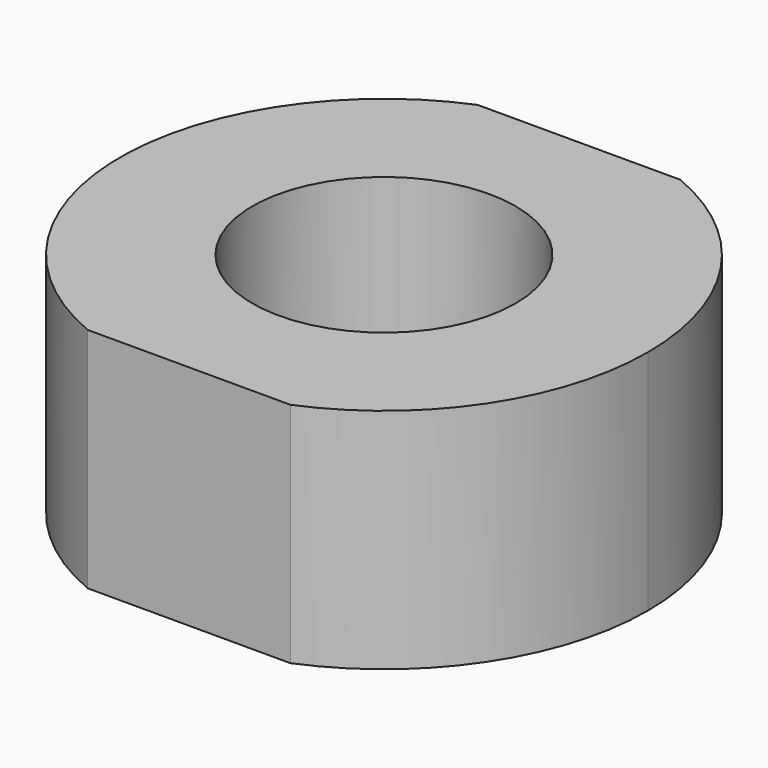
from build123d import *

# Parameters (mm, degrees)
F0_R     = 1.085
F1_DEPTH = 1.875


with BuildPart() as f1:
    # F0 (on Top) → F1 (new body)
    with BuildSketch(Plane.XY):
        with BuildLine():
            ThreePointArc((0.835, -2.008333), (1.809247, -1.207166), (2.175, 0))
            ThreePointArc((2.175, 0), (1.809247, 1.207166), (0.835, 2.008333))
            Line((0.835, 2.008333), (-0.835, 2.008333))
            ThreePointArc((-0.835, 2.008333), (-2.175, 0), (-0.835, -2.008333))
            Line((-0.835, -2.008333), (0.835, -2.008333))
        make_face()
        Circle(F0_R, mode=Mode.SUBTRACT)
    extrude(amount=F1_DEPTH)


solid = f1.part
